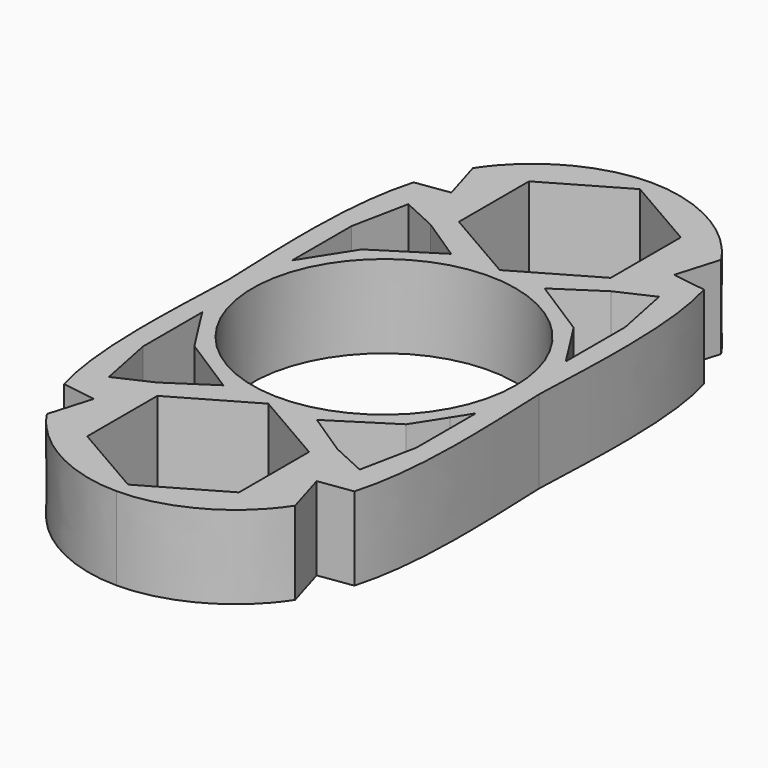
from build123d import *

# Parameters (mm, degrees)
F0_R     = 11.1
F1_DEPTH = 7


with BuildPart() as f1:
    # F0 (on Top) → F1 (new body)
    with BuildSketch(Plane.XY):
        with BuildLine():
            add(Edge.make_bspline(
                [(0, 28.1878467649), (3.8763035152, 28.2040634856), (8.0688480164, 26.1116467562), (10.4658603604, 22.4543227052)],
                knots=[0, 0, 0, 0, 0.4129058091, 0.4129058091, 0.4129058091, 0.4129058091], degree=3))
            add(Edge.make_bspline(
                [(0, 28.1878467649), (-3.8763035152, 28.2040634856), (-8.0688480164, 26.1116467562), (-10.4658603604, 22.4543227052)],
                knots=[0, 0, 0, 0, 0.4129058091, 0.4129058091, 0.4129058091, 0.4129058091], degree=3))
            Line((-10.4658603604, 22.4543227052), (-9.3901595101, 18.8373755664))
            Line((-9.3901595101, 18.8373755664), (-12.2452968513, 18.429759182))
            add(Edge.make_bspline(
                [(-12.2452968513, 18.429759182), (-13.6777081897, 13.4016693255), (-13.3470218498, 6.8416931392), (-13.0910407752, 0)],
                knots=[0.5468406746, 0.5468406746, 0.5468406746, 0.5468406746, 1, 1, 1, 1], degree=3))
            add(Edge.make_bspline(
                [(-12.2452968513, -18.429759182), (-13.6777081897, -13.4016693255), (-13.3470218498, -6.8416931392), (-13.0910407752, 0)],
                knots=[0.5468406746, 0.5468406746, 0.5468406746, 0.5468406746, 1, 1, 1, 1], degree=3))
            Line((-12.2452968513, -18.429759182), (-9.3901595101, -18.8373755664))
            Line((-9.3901595101, -18.8373755664), (-10.4658603604, -22.4543227052))
            add(Edge.make_bspline(
                [(0, -28.1878467649), (-3.8763035152, -28.2040634856), (-8.0688480164, -26.1116467562), (-10.4658603604, -22.4543227052)],
                knots=[0, 0, 0, 0, 0.4129058091, 0.4129058091, 0.4129058091, 0.4129058091], degree=3))
            add(Edge.make_bspline(
                [(0, -28.1878467649), (3.8763035152, -28.2040634856), (8.0688480164, -26.1116467562), (10.4658603604, -22.4543227052)],
                knots=[0, 0, 0, 0, 0.4129058091, 0.4129058091, 0.4129058091, 0.4129058091], degree=3))
            Line((10.4658603604, -22.4543227052), (9.3901595101, -18.8373755664))
            Line((9.3901595101, -18.8373755664), (12.2452968513, -18.429759182))
            add(Edge.make_bspline(
                [(12.2452968513, -18.429759182), (13.6777081897, -13.4016693255), (13.3470218498, -6.8416931392), (13.0910407752, 0)],
                knots=[0.5468406746, 0.5468406746, 0.5468406746, 0.5468406746, 1, 1, 1, 1], degree=3))
            add(Edge.make_bspline(
                [(12.2452968513, 18.429759182), (13.6777081897, 13.4016693255), (13.3470218498, 6.8416931392), (13.0910407752, 0)],
                knots=[0.5468406746, 0.5468406746, 0.5468406746, 0.5468406746, 1, 1, 1, 1], degree=3))
            Line((12.2452968513, 18.429759182), (9.3901595101, 18.8373755664))
            Line((9.3901595101, 18.8373755664), (10.4658603604, 22.4543227052))
        make_face()
        Polygon((-11.5394731984, -4.7315182164), (-10.5750951916, -6.2584495172), (-8.9276162907, -8.8301226497), (-3.9449990727, -12.0045328513), (-7.601597812, -14.4154764712), (-10.5750951916, -15.7816782594), (-11.5394731984, -10.9999720007), align=None, mode=Mode.SUBTRACT)
        Polygon((-6.4, -23.2869711138), (-6.4, -15.8968876682), (0, -12.2018459454), (6.4, -15.8968876682), (6.4, -23.2869711138), (0, -26.9820128367), align=None, mode=Mode.SUBTRACT)
        Polygon((8.9276162907, -8.8301226497), (10.5750951916, -6.2584495172), (11.5394731984, -4.7315182164), (11.5394731984, -10.9999720007), (10.5750951916, -15.7816782594), (7.601597812, -14.4154764712), (3.9449990727, -12.0045328513), align=None, mode=Mode.SUBTRACT)
        Polygon((-8.9276162907, 8.8301226497), (-10.5750951916, 6.2584495172), (-11.5394731984, 4.7315182164), (-11.5394731984, 10.9999720007), (-10.5750951916, 15.7816782594), (-7.601597812, 14.4154764712), (-3.9449990727, 12.0045328513), align=None, mode=Mode.SUBTRACT)
        Circle(F0_R, mode=Mode.SUBTRACT)
        Polygon((3.9449990727, 12.0045328513), (7.601597812, 14.4154764712), (10.5750951916, 15.7816782594), (11.5394731984, 10.9999720007), (11.5394731984, 4.7315182164), (10.5750951916, 6.2584495172), (8.9276162907, 8.8301226497), align=None, mode=Mode.SUBTRACT)
        Polygon((0, 26.9820128367), (6.4, 23.2869711138), (6.4, 15.8968876682), (0, 12.2018459454), (-6.4, 15.8968876682), (-6.4, 23.2869711138), align=None, mode=Mode.SUBTRACT)
    extrude(amount=F1_DEPTH)


solid = f1.part
